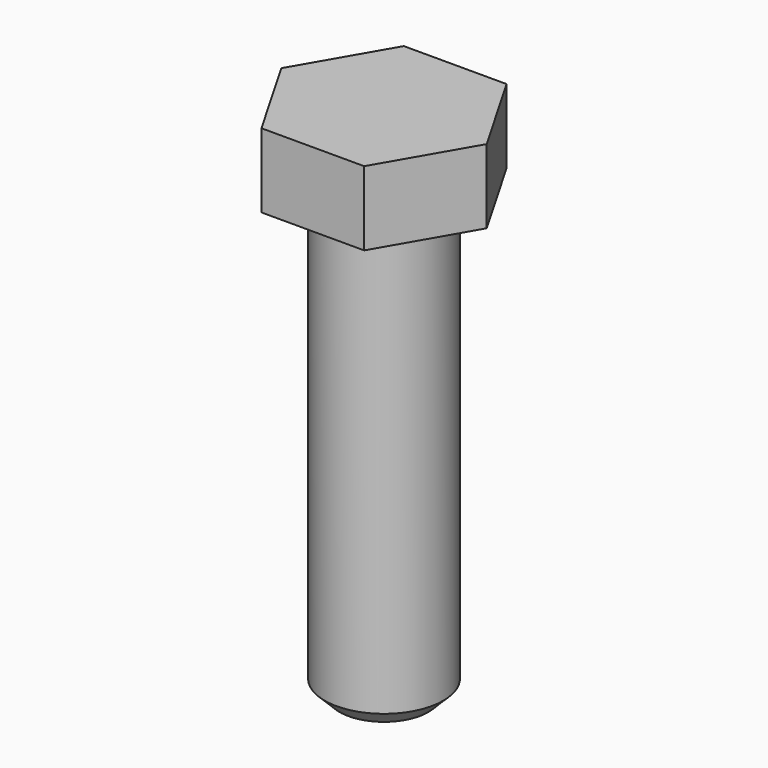
from build123d import *

# Parameters (mm, degrees)
F1_DEPTH = 5
F2_R     = 4
F3_DEPTH = 30
F4_SIZE  = 1


with BuildPart() as f1:
    # F0 (on Top) → F1 (new body)
    with BuildSketch(Plane.XY):
        Polygon((3.464102, 6), (-3.464102, 6), (-6.928203, 0), (-3.464102, -6), (3.464102, -6), (6.928203, 0), align=None)
    extrude(amount=F1_DEPTH)

    # F2 (on face) → F3 (join)
    with BuildSketch(Plane(origin=(0, 0, 0), x_dir=(1, 0, 0), z_dir=(0, 0, -1))):
        Circle(F2_R)
    extrude(amount=F3_DEPTH)

    # F4
    f4_edges = [f1.edges().sort_by_distance(p)[0] for p in [
        (-4, 0, -30),
    ]]
    chamfer(f4_edges, length=F4_SIZE)


solid = f1.part
